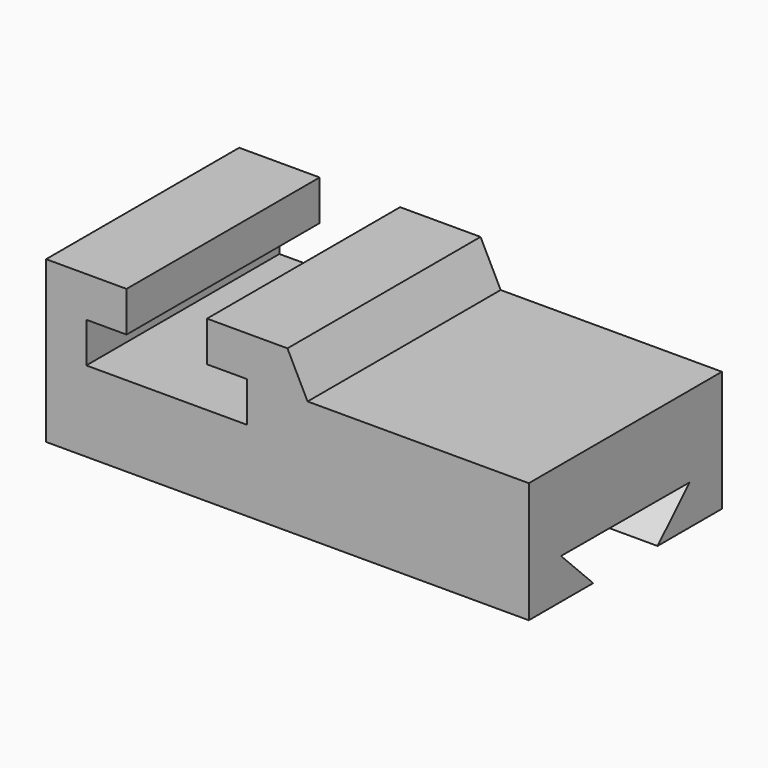
from build123d import *

# Parameters (mm, degrees)
F1_DEPTH = 76.2
F3_DEPTH = 152.4


with BuildPart() as f1:
    # F0 (on Front) → F1 (new body)
    with BuildSketch(Plane.XZ):
        Polygon((0, 50.8), (0, 0), (152.4, 0), (152.4, 38.1), (82.55, 38.1), (76.2, 50.8), (50.8, 50.8), (50.8, 38.1), (63.5, 38.1), (63.5, 25.4), (12.7, 25.4), (12.7, 38.1), (25.4, 38.1), (25.4, 50.8), align=None)
    extrude(amount=F1_DEPTH)

    # F2 (on face) → F3 (cut)
    with BuildSketch(Plane.YZ.offset(152.4)):
        Polygon((-63.499766, 12.7), (-50.799533, 0), (-25.399533, 0), (-12.7, 12.545916), align=None)
    extrude(amount=-F3_DEPTH, mode=Mode.SUBTRACT)


solid = f1.part
